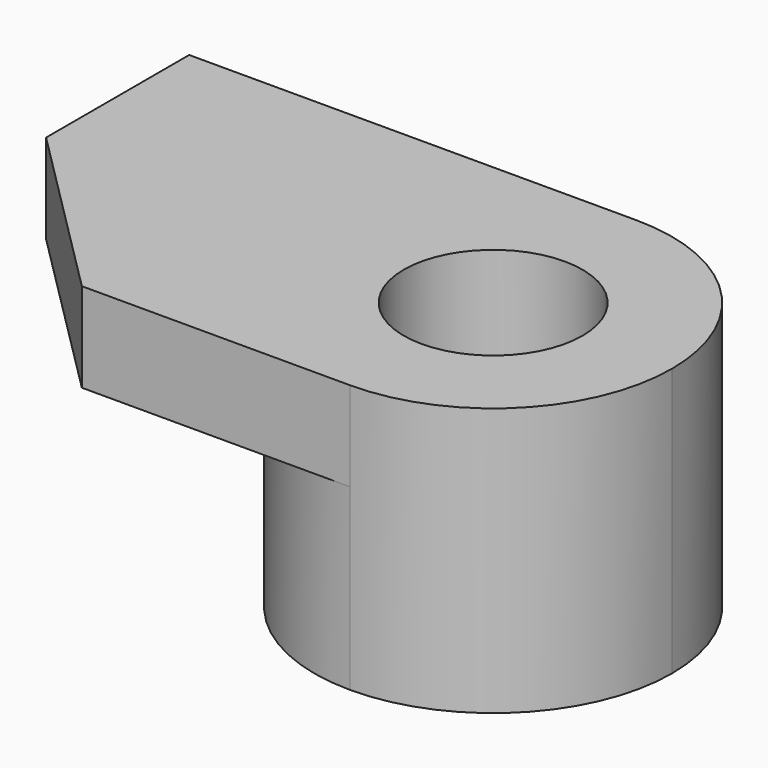
from build123d import *

# Parameters (mm, degrees)
F1_DEPTH = 6.35
F3_DEPTH = 19.05
F4_DEPTH = 6.351


with BuildPart() as f1:
    # F0 (on Top) → F1 (new body)
    with BuildSketch(Plane.XY):
        Polygon((-19.05, 0), (0, 0), (0, 25.4), (-31.75, 25.4), (-31.75, 12.7), align=None)
    extrude(amount=F1_DEPTH)

    # F2 (on face) → F3 (join)
    with BuildSketch(Plane.XY.offset(6.35)):
        with BuildLine():
            ThreePointArc((0, 0), (8.9802561211, 3.7197438789), (12.7, 12.7))
            ThreePointArc((12.7, 12.7), (8.9802561211, 21.6802561211), (0, 25.4))
            Line((0, 25.4), (0, 19.05))
            ThreePointArc((0, 19.05), (4.4901280605, 17.1901280605), (6.35, 12.7))
            ThreePointArc((6.35, 12.7), (4.4901280605, 8.2098719395), (0, 6.35))
            Line((0, 6.35), (0, 0))
        make_face()
        with BuildLine():
            Line((0, 19.05), (0, 25.4))
            ThreePointArc((0, 25.4), (-12.7, 12.7), (0, 0))
            Line((0, 0), (0, 6.35))
            ThreePointArc((0, 6.35), (-6.35, 12.7), (0, 19.05))
        make_face()
    extrude(amount=-F3_DEPTH)

    # F4 (cut, through all): a face of the model
    f4_faces = [f1.faces().sort_by_distance(p)[0] for p in [
        (-2.695023703, 12.7, 0),
    ]]
    extrude(f4_faces, amount=-F4_DEPTH, mode=Mode.SUBTRACT)


solid = f1.part
